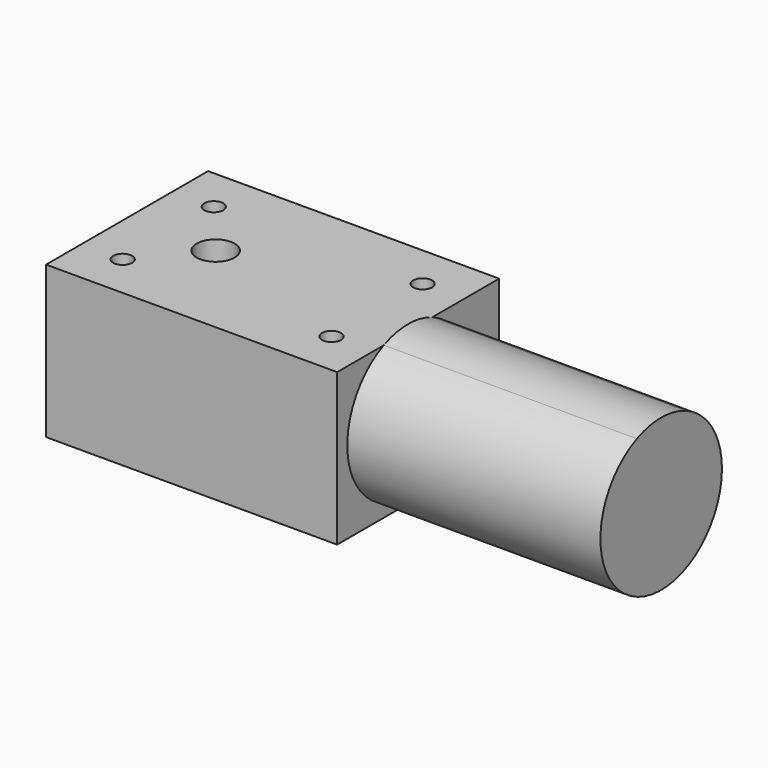
from build123d import *

# Parameters (mm, degrees)
F0_W     = 46
F0_H     = 32
F0_R     = 1.5
F0_R_2   = 3
F1_DEPTH = 24
F3_DEPTH = 40


with BuildPart() as f1:
    # F0 (on Top) → F1 (new body)
    with BuildSketch(Plane.XY):
        Rectangle(F0_W, F0_H)
        with Locations((-16.5, -9)):
            Circle(F0_R, mode=Mode.SUBTRACT)
        with Locations((16.5, -9)):
            Circle(F0_R, mode=Mode.SUBTRACT)
        with Locations((-9, 0)):
            Circle(F0_R_2, mode=Mode.SUBTRACT)
        with Locations((-16.5, 9)):
            Circle(F0_R, mode=Mode.SUBTRACT)
        with Locations((16.5, 9)):
            Circle(F0_R, mode=Mode.SUBTRACT)
    extrude(amount=F1_DEPTH)

    # F2 (on face) → F3 (join)
    with BuildSketch(Plane.YZ.offset(23)):
        with BuildLine():
            ThreePointArc((-6.795832, 24), (-8.574573, 2.961325), (10, 13))
            ThreePointArc((10, 13), (8.038675, 19.574573), (2.795832, 24))
            Line((2.795832, 24), (-6.795832, 24))
        make_face()
        with BuildLine():
            Line((-6.795832, 24), (2.795832, 24))
            ThreePointArc((2.795832, 24), (-2, 25), (-6.795832, 24))
        make_face()
    extrude(amount=F3_DEPTH)


solid = f1.part
